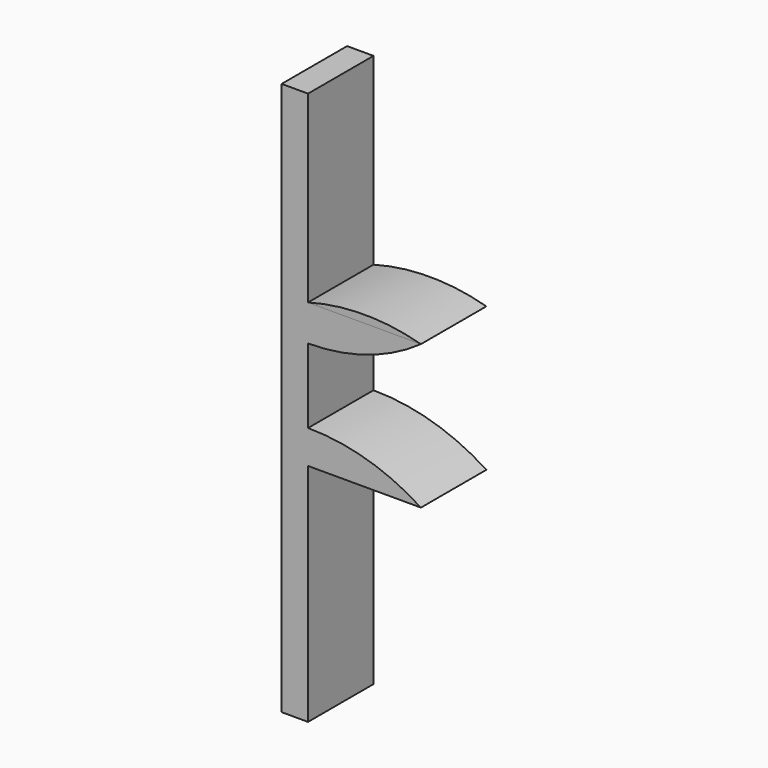
from build123d import *

# Parameters (mm, degrees)
F0_W     = 18.415
F0_H     = 124.46
F1_DEPTH = 5.9436
F3_DEPTH = 25.4
F4_DEPTH = 25.4
F6_DEPTH = 50.8
F7_DEPTH = 18.415


with BuildPart() as f1:
    # F0 (on Right) → F1 (new body)
    with BuildSketch(Plane.YZ):
        with Locations((-2.197098, -4.673599)):
            Rectangle(F0_W, F0_H)
    extrude(amount=F1_DEPTH)

    # F2 (on face) → F3 (join)
    with BuildSketch(Plane.YZ.offset(5.9436)):
        Polygon((-11.404598, -16.1925), (0, -16.1925), (7.010402, -16.1925), (7.010402, -8.6868), (-11.404598, -8.6868), align=None)
        Polygon((7.010402, 16.1925), (0, 16.1925), (-11.404598, 16.1925), (-11.404598, 8.0772), (7.010402, 8.0772), align=None)
    extrude(amount=F3_DEPTH)

    # F2 (on face) → F4 (join)
    with BuildSketch(Plane.YZ.offset(5.9436)):
        Polygon((-11.404598, -16.1925), (0, -16.1925), (7.010402, -16.1925), (7.010402, -8.6868), (-11.404598, -8.6868), align=None)
    extrude(amount=F4_DEPTH)

    # F5 (on face) → F6 (cut)
    with BuildSketch(Plane.XZ.offset(11.404598)):
        with BuildLine():
            Line((31.3436, -16.1925), (5.9436, -16.1925))
            ThreePointArc((5.9436, -16.1925), (18.6436, -17.912299), (31.3436, -16.1925))
        make_face()
        with BuildLine():
            Line((5.9436, 16.1925), (31.3436, 16.1925))
            ThreePointArc((31.3436, 16.1925), (18.6436, 17.912299), (5.9436, 16.1925))
        make_face()
        with BuildLine():
            Line((31.3436, -8.6868), (5.9436, -8.6868))
            ThreePointArc((5.9436, -8.6868), (19.186481, -10.602491), (31.3436, -16.1925))
            Line((31.3436, -16.1925), (31.3436, -8.6868))
        make_face()
        with BuildLine():
            ThreePointArc((31.3436, 16.1925), (19.276061, 10.155315), (5.9436, 8.0772))
            Line((5.9436, 8.0772), (31.3436, 8.0772))
            Line((31.3436, 8.0772), (31.3436, 16.1925))
        make_face()
    extrude(amount=-F6_DEPTH, mode=Mode.SUBTRACT)


with BuildPart() as f7:
    # F5 (on face) → F7 (new body)
    with BuildSketch(Plane.XZ.offset(11.404598)):
        with BuildLine():
            Line((5.9436, 16.1925), (31.3436, 16.1925))
            ThreePointArc((31.3436, 16.1925), (18.6436, 17.912299), (5.9436, 16.1925))
        make_face()
    extrude(amount=-F7_DEPTH)


solid = Compound([f1.part, f7.part])
